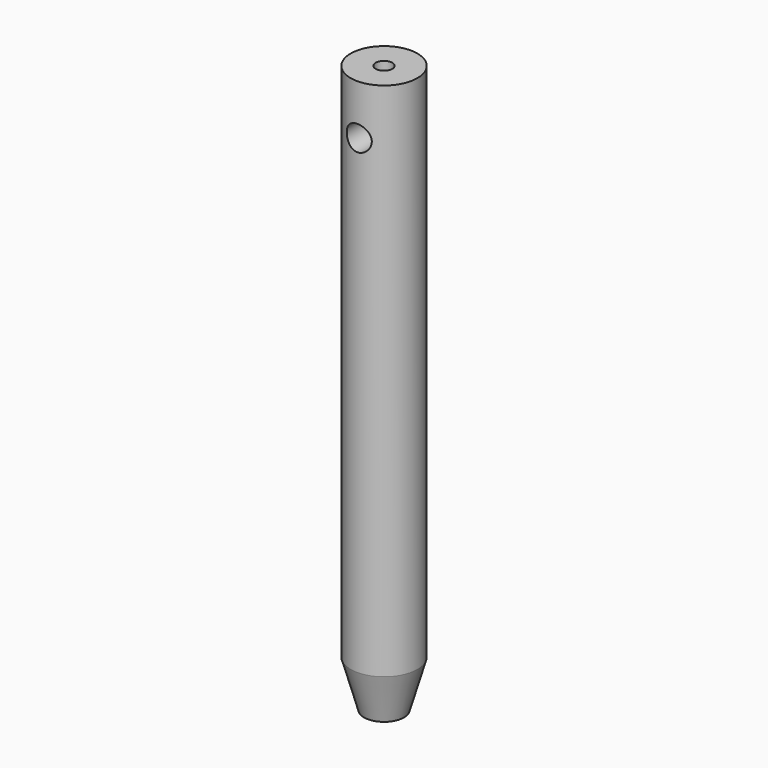
from build123d import *

# Parameters (mm, degrees)
F0_R          = 12.7
F1_DEPTH      = 215.9
F2_SIZE2      = 5.08
F2_SIZE       = 17.78
F3_R          = 4.7625
F4_DEPTH      = 25.4
F4_DEPTH_BACK = 25.4
F5_R          = 3.175
F6_DEPTH      = 12.7


with BuildPart() as f1:
    # F0 (on Top) → F1 (new body)
    with BuildSketch(Plane.XY):
        Circle(F0_R)
    extrude(amount=F1_DEPTH)

    # F2
    f2_edges = [f1.edges().sort_by_distance(p)[0] for p in [
        (-12.7, 0, 0),
    ]]
    chamfer(f2_edges, length=F2_SIZE, length2=F2_SIZE2)

    # F3 (on Front) → F4 (cut, two sides)
    with BuildSketch(Plane.XZ) as f4_sk:
        with Locations((0, 196.85)):
            Circle(F3_R)
    extrude(amount=F4_DEPTH, mode=Mode.SUBTRACT)
    extrude(f4_sk.sketch, amount=-F4_DEPTH_BACK, mode=Mode.SUBTRACT)

    # F5 (on face) → F6 (cut)
    with BuildSketch(Plane.XY.offset(215.9)):
        Circle(F5_R)
    extrude(amount=-F6_DEPTH, mode=Mode.SUBTRACT)


solid = f1.part
